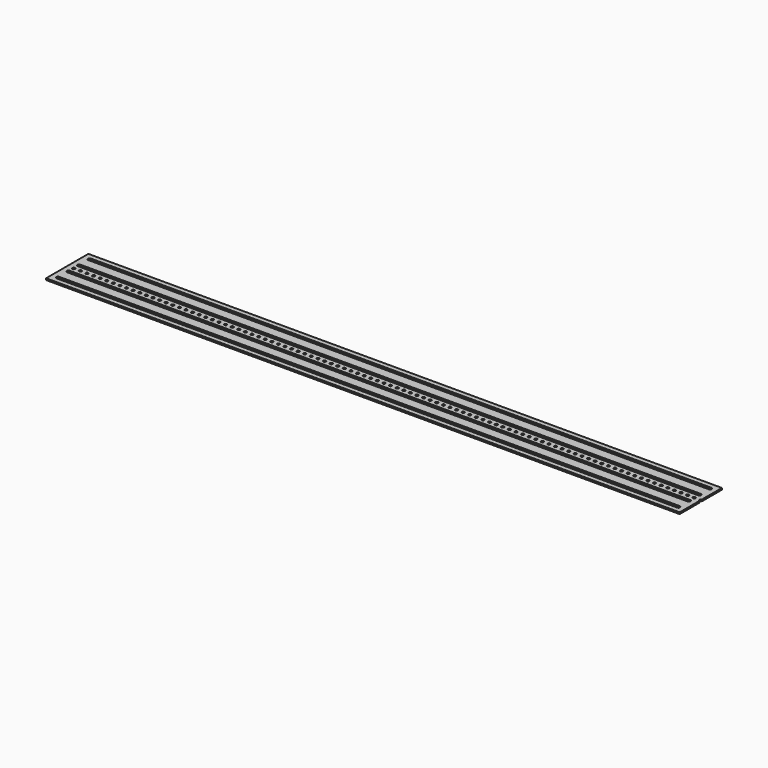
from build123d import *

# Parameters (mm, degrees)
F0_R     = 2.5527
F1_DEPTH = 3.175


with BuildPart() as f1:
    # F0 (on Top) → F1 (new body)
    with BuildSketch(Plane.XY):
        with BuildLine():
            Line((-609.6, 50.8), (-609.6, -50.8))
            Line((-609.6, -50.8), (609.6, -50.8))
            Line((609.6, -50.8), (609.6, -2.5527))
            ThreePointArc((609.6, -2.5527), (607.0473, 0), (609.6, 2.5527))
            Line((609.6, 2.5527), (609.6, 50.8))
            Line((609.6, 50.8), (-609.6, 50.8))
        make_face()
        with BuildLine():
            ThreePointArc((-596.9, -41.275), (-600.075, -38.1), (-596.9, -34.925))
            Line((-596.9, -34.925), (596.9, -34.925))
            ThreePointArc((596.9, -34.925), (600.075, -38.1), (596.9, -41.275))
            Line((596.9, -41.275), (-596.9, -41.275))
        make_face(mode=Mode.SUBTRACT)
        with Locations((-596.9, 0)):
            Circle(F0_R, mode=Mode.SUBTRACT)
        with Locations((-584.2, 0)):
            Circle(F0_R, mode=Mode.SUBTRACT)
        with Locations((-571.5, 0)):
            Circle(F0_R, mode=Mode.SUBTRACT)
        with Locations((-558.8, 0)):
            Circle(F0_R, mode=Mode.SUBTRACT)
        with Locations((-546.1, 0)):
            Circle(F0_R, mode=Mode.SUBTRACT)
        with Locations((-533.4, 0)):
            Circle(F0_R, mode=Mode.SUBTRACT)
        with Locations((-520.7, 0)):
            Circle(F0_R, mode=Mode.SUBTRACT)
        with Locations((-508, 0)):
            Circle(F0_R, mode=Mode.SUBTRACT)
        with Locations((-495.3, 0)):
            Circle(F0_R, mode=Mode.SUBTRACT)
        with Locations((-482.6, 0)):
            Circle(F0_R, mode=Mode.SUBTRACT)
        with Locations((-469.9, 0)):
            Circle(F0_R, mode=Mode.SUBTRACT)
        with Locations((-457.2, 0)):
            Circle(F0_R, mode=Mode.SUBTRACT)
        with Locations((-444.5, 0)):
            Circle(F0_R, mode=Mode.SUBTRACT)
        with Locations((-431.8, 0)):
            Circle(F0_R, mode=Mode.SUBTRACT)
        with Locations((-419.1, 0)):
            Circle(F0_R, mode=Mode.SUBTRACT)
        with Locations((-406.4, 0)):
            Circle(F0_R, mode=Mode.SUBTRACT)
        with Locations((-393.7, 0)):
            Circle(F0_R, mode=Mode.SUBTRACT)
        with Locations((-381, 0)):
            Circle(F0_R, mode=Mode.SUBTRACT)
        with Locations((-368.3, 0)):
            Circle(F0_R, mode=Mode.SUBTRACT)
        with Locations((-355.6, 0)):
            Circle(F0_R, mode=Mode.SUBTRACT)
        with Locations((-342.9, 0)):
            Circle(F0_R, mode=Mode.SUBTRACT)
        with Locations((-330.2, 0)):
            Circle(F0_R, mode=Mode.SUBTRACT)
        with Locations((-317.5, 0)):
            Circle(F0_R, mode=Mode.SUBTRACT)
        with Locations((-304.8, 0)):
            Circle(F0_R, mode=Mode.SUBTRACT)
        with Locations((-292.1, 0)):
            Circle(F0_R, mode=Mode.SUBTRACT)
        with BuildLine():
            ThreePointArc((-596.9, -15.875), (-600.075, -12.7), (-596.9, -9.525))
            Line((-596.9, -9.525), (596.9, -9.525))
            ThreePointArc((596.9, -9.525), (600.075, -12.7), (596.9, -15.875))
            Line((596.9, -15.875), (-596.9, -15.875))
        make_face(mode=Mode.SUBTRACT)
        with Locations((-279.4, 0)):
            Circle(F0_R, mode=Mode.SUBTRACT)
        with Locations((-266.7, 0)):
            Circle(F0_R, mode=Mode.SUBTRACT)
        with Locations((-254, 0)):
            Circle(F0_R, mode=Mode.SUBTRACT)
        with Locations((-241.3, 0)):
            Circle(F0_R, mode=Mode.SUBTRACT)
        with Locations((-228.6, 0)):
            Circle(F0_R, mode=Mode.SUBTRACT)
        with Locations((-215.9, 0)):
            Circle(F0_R, mode=Mode.SUBTRACT)
        with Locations((-203.2, 0)):
            Circle(F0_R, mode=Mode.SUBTRACT)
        with Locations((-190.5, 0)):
            Circle(F0_R, mode=Mode.SUBTRACT)
        with Locations((-177.8, 0)):
            Circle(F0_R, mode=Mode.SUBTRACT)
        with Locations((-165.1, 0)):
            Circle(F0_R, mode=Mode.SUBTRACT)
        with Locations((-152.4, 0)):
            Circle(F0_R, mode=Mode.SUBTRACT)
        with Locations((-139.7, 0)):
            Circle(F0_R, mode=Mode.SUBTRACT)
        with Locations((-127, 0)):
            Circle(F0_R, mode=Mode.SUBTRACT)
        with Locations((-114.3, 0)):
            Circle(F0_R, mode=Mode.SUBTRACT)
        with Locations((-101.6, 0)):
            Circle(F0_R, mode=Mode.SUBTRACT)
        with Locations((-88.9, 0)):
            Circle(F0_R, mode=Mode.SUBTRACT)
        with Locations((-76.2, 0)):
            Circle(F0_R, mode=Mode.SUBTRACT)
        with Locations((-63.5, 0)):
            Circle(F0_R, mode=Mode.SUBTRACT)
        with Locations((-50.8, 0)):
            Circle(F0_R, mode=Mode.SUBTRACT)
        with Locations((-38.1, 0)):
            Circle(F0_R, mode=Mode.SUBTRACT)
        with Locations((-25.4, 0)):
            Circle(F0_R, mode=Mode.SUBTRACT)
        with Locations((-12.7, 0)):
            Circle(F0_R, mode=Mode.SUBTRACT)
        Circle(F0_R, mode=Mode.SUBTRACT)
        with Locations((12.7, 0)):
            Circle(F0_R, mode=Mode.SUBTRACT)
        with Locations((25.4, 0)):
            Circle(F0_R, mode=Mode.SUBTRACT)
        with Locations((38.1, 0)):
            Circle(F0_R, mode=Mode.SUBTRACT)
        with Locations((50.8, 0)):
            Circle(F0_R, mode=Mode.SUBTRACT)
        with Locations((63.5, 0)):
            Circle(F0_R, mode=Mode.SUBTRACT)
        with Locations((76.2, 0)):
            Circle(F0_R, mode=Mode.SUBTRACT)
        with Locations((88.9, 0)):
            Circle(F0_R, mode=Mode.SUBTRACT)
        with Locations((101.6, 0)):
            Circle(F0_R, mode=Mode.SUBTRACT)
        with Locations((114.3, 0)):
            Circle(F0_R, mode=Mode.SUBTRACT)
        with Locations((127, 0)):
            Circle(F0_R, mode=Mode.SUBTRACT)
        with Locations((139.7, 0)):
            Circle(F0_R, mode=Mode.SUBTRACT)
        with Locations((152.4, 0)):
            Circle(F0_R, mode=Mode.SUBTRACT)
        with Locations((165.1, 0)):
            Circle(F0_R, mode=Mode.SUBTRACT)
        with Locations((177.8, 0)):
            Circle(F0_R, mode=Mode.SUBTRACT)
        with Locations((190.5, 0)):
            Circle(F0_R, mode=Mode.SUBTRACT)
        with Locations((203.2, 0)):
            Circle(F0_R, mode=Mode.SUBTRACT)
        with Locations((215.9, 0)):
            Circle(F0_R, mode=Mode.SUBTRACT)
        with Locations((228.6, 0)):
            Circle(F0_R, mode=Mode.SUBTRACT)
        with Locations((241.3, 0)):
            Circle(F0_R, mode=Mode.SUBTRACT)
        with Locations((254, 0)):
            Circle(F0_R, mode=Mode.SUBTRACT)
        with Locations((266.7, 0)):
            Circle(F0_R, mode=Mode.SUBTRACT)
        with Locations((279.4, 0)):
            Circle(F0_R, mode=Mode.SUBTRACT)
        with Locations((292.1, 0)):
            Circle(F0_R, mode=Mode.SUBTRACT)
        with Locations((304.8, 0)):
            Circle(F0_R, mode=Mode.SUBTRACT)
        with Locations((317.5, 0)):
            Circle(F0_R, mode=Mode.SUBTRACT)
        with Locations((330.2, 0)):
            Circle(F0_R, mode=Mode.SUBTRACT)
        with Locations((342.9, 0)):
            Circle(F0_R, mode=Mode.SUBTRACT)
        with Locations((355.6, 0)):
            Circle(F0_R, mode=Mode.SUBTRACT)
        with Locations((368.3, 0)):
            Circle(F0_R, mode=Mode.SUBTRACT)
        with Locations((381, 0)):
            Circle(F0_R, mode=Mode.SUBTRACT)
        with Locations((393.7, 0)):
            Circle(F0_R, mode=Mode.SUBTRACT)
        with Locations((406.4, 0)):
            Circle(F0_R, mode=Mode.SUBTRACT)
        with Locations((419.1, 0)):
            Circle(F0_R, mode=Mode.SUBTRACT)
        with Locations((431.8, 0)):
            Circle(F0_R, mode=Mode.SUBTRACT)
        with Locations((444.5, 0)):
            Circle(F0_R, mode=Mode.SUBTRACT)
        with Locations((457.2, 0)):
            Circle(F0_R, mode=Mode.SUBTRACT)
        with Locations((469.9, 0)):
            Circle(F0_R, mode=Mode.SUBTRACT)
        with Locations((482.6, 0)):
            Circle(F0_R, mode=Mode.SUBTRACT)
        with Locations((495.3, 0)):
            Circle(F0_R, mode=Mode.SUBTRACT)
        with Locations((508, 0)):
            Circle(F0_R, mode=Mode.SUBTRACT)
        with Locations((520.7, 0)):
            Circle(F0_R, mode=Mode.SUBTRACT)
        with Locations((533.4, 0)):
            Circle(F0_R, mode=Mode.SUBTRACT)
        with Locations((546.1, 0)):
            Circle(F0_R, mode=Mode.SUBTRACT)
        with Locations((558.8, 0)):
            Circle(F0_R, mode=Mode.SUBTRACT)
        with Locations((571.5, 0)):
            Circle(F0_R, mode=Mode.SUBTRACT)
        with Locations((584.2, 0)):
            Circle(F0_R, mode=Mode.SUBTRACT)
        with Locations((596.9, 0)):
            Circle(F0_R, mode=Mode.SUBTRACT)
        with BuildLine():
            ThreePointArc((-596.9, 9.525), (-600.075, 12.7), (-596.9, 15.875))
            Line((-596.9, 15.875), (596.9, 15.875))
            ThreePointArc((596.9, 15.875), (600.075, 12.7), (596.9, 9.525))
            Line((596.9, 9.525), (-596.9, 9.525))
        make_face(mode=Mode.SUBTRACT)
        with BuildLine():
            ThreePointArc((596.9, 41.275), (600.075, 38.1), (596.9, 34.925))
            Line((596.9, 34.925), (-596.9, 34.925))
            ThreePointArc((-596.9, 34.925), (-600.075, 38.1), (-596.9, 41.275))
            Line((-596.9, 41.275), (596.9, 41.275))
        make_face(mode=Mode.SUBTRACT)
    extrude(amount=F1_DEPTH)


solid = f1.part
